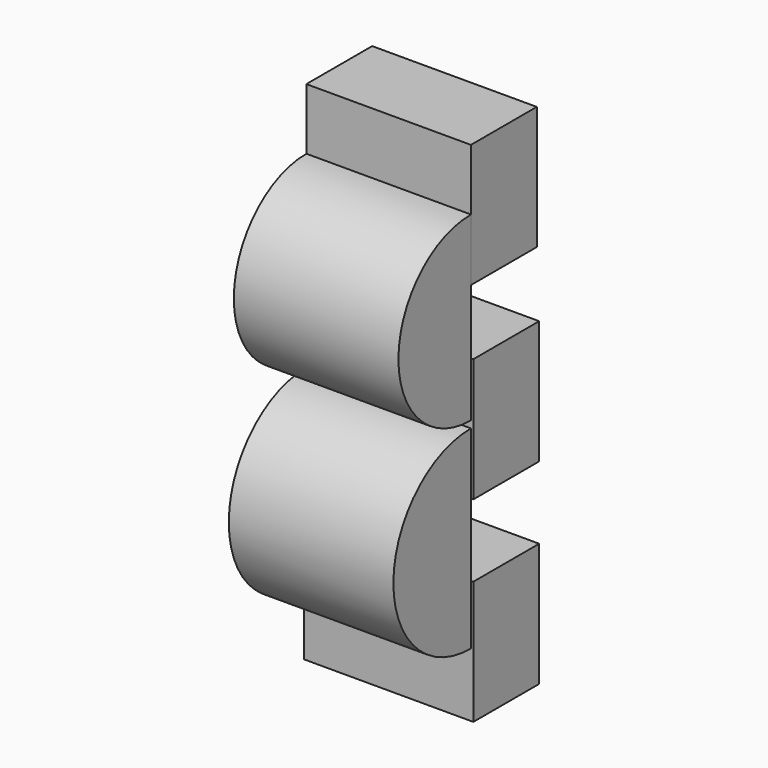
from build123d import *

# Parameters (mm, degrees)
F0_W     = 50.8
F0_H     = 38.1
F0_W_2   = 52.300984
F2_DEPTH = 25.4
F3_DEPTH = 25.4


with BuildPart() as f2:
    # F0 (on Front) → F2 (new body)
    with BuildSketch(Plane.XZ):
        with Locations((0, 57.988684)):
            Rectangle(F0_W, F0_H)
        Rectangle(F0_W_2, F0_H)
        with Locations((0, -60.469225)):
            Rectangle(F0_W_2, F0_H)
    extrude(amount=-F2_DEPTH)


with BuildPart() as f3:
    # F1 (on Right) → F3 (new body, symmetric)
    with BuildSketch(Plane.YZ):
        with BuildLine():
            Line((0, -59.826694), (0, 0))
            ThreePointArc((0, 0), (-29.913347, -29.913347), (0, -59.826694))
        make_face()
        with BuildLine():
            Line((0, 2.172925), (0, 58.118217))
            ThreePointArc((0, 58.118217), (-27.972646, 30.145571), (0, 2.172925))
        make_face()
    extrude(amount=F3_DEPTH, both=True)


solid = Compound([f2.part, f3.part])
